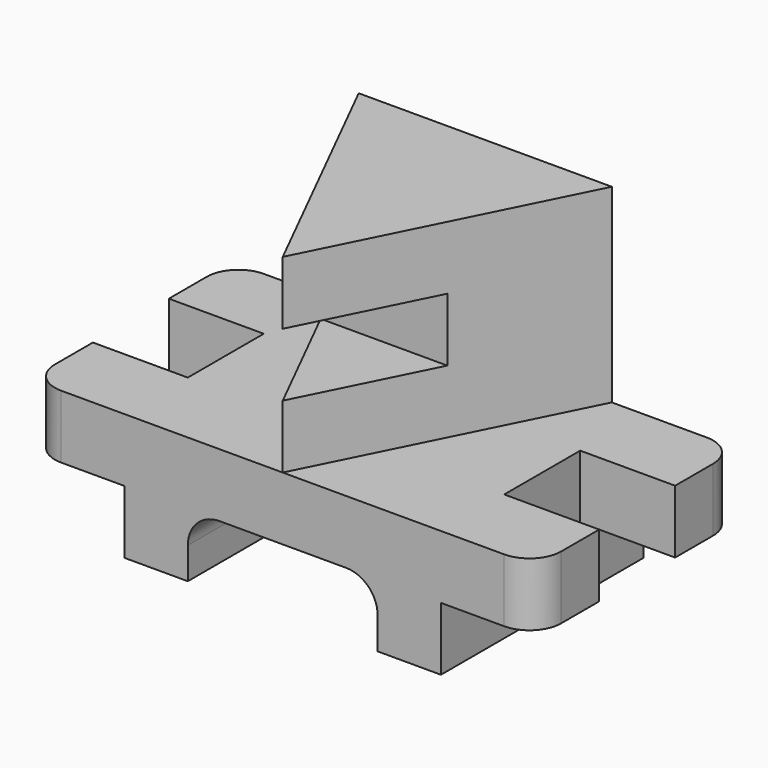
from build123d import *

# Parameters (mm, degrees)
F1_DEPTH  = 101.6
F3_DEPTH  = 76.2
F4_R      = 12.7
F5_W      = 38.1
F5_H      = 38.1
F6_DEPTH  = 50.801
F7_W      = 38.1
F7_H      = 38.1
F8_DEPTH  = 50.801
F9_W      = 50.8
F9_H      = 25.4
F10_DEPTH = 203.201


with BuildPart() as f1:
    # F0 (on Front) → F1 (new body)
    with BuildSketch(Plane.XZ):
        with BuildLine():
            Line((38.1, 25.4), (38.1, 0))
            Line((38.1, 0), (63.5, 0))
            Line((63.5, 0), (63.5, 12.7))
            ThreePointArc((63.5, 12.7), (67.219744, 21.680256), (76.2, 25.4))
            Line((76.2, 25.4), (127, 25.4))
            ThreePointArc((127, 25.4), (135.980256, 21.680256), (139.7, 12.7))
            Line((139.7, 12.7), (139.7, 0))
            Line((139.7, 0), (165.1, 0))
            Line((165.1, 0), (165.1, 25.4))
            Line((165.1, 25.4), (203.2, 25.4))
            Line((203.2, 25.4), (203.2, 127))
            Line((203.2, 127), (0, 127))
            Line((0, 127), (0, 25.4))
            Line((0, 25.4), (38.1, 25.4))
        make_face()
    extrude(amount=-F1_DEPTH)

    # F2 (on face) → F3 (cut)
    with BuildSketch(Plane.XY.offset(127)):
        Polygon((152.4, 101.6), (101.6, 0), (203.2, 0), (203.2, 101.6), align=None)
        Polygon((0, 0), (101.6, 0), (50.8, 101.6), (0, 101.6), align=None)
    extrude(amount=-F3_DEPTH, mode=Mode.SUBTRACT)

    # F4
    f4_edges = [f1.edges().sort_by_distance(p)[0] for p in [
        (203.2, 0, 38.1),
        (203.2, 101.6, 38.1),
        (0, 101.6, 38.1),
        (0, 0, 38.1),
    ]]
    fillet(f4_edges, radius=F4_R)

    # F5 (on face) → F6 (cut, through all)
    with BuildSketch(Plane.XY.offset(50.8)):
        with Locations((19.05, 50.8)):
            Rectangle(F5_W, F5_H)
    extrude(amount=-F6_DEPTH, mode=Mode.SUBTRACT)

    # F7 (on face) → F8 (cut, through all)
    with BuildSketch(Plane.XY.offset(50.8)):
        with Locations((184.15, 50.8)):
            Rectangle(F7_W, F7_H)
    extrude(amount=-F8_DEPTH, mode=Mode.SUBTRACT)

    # F9 (on Right) → F10 (cut, through all)
    with BuildSketch(Plane.YZ):
        with Locations((25.4, 88.9)):
            Rectangle(F9_W, F9_H)
    extrude(amount=F10_DEPTH, mode=Mode.SUBTRACT)


solid = f1.part
